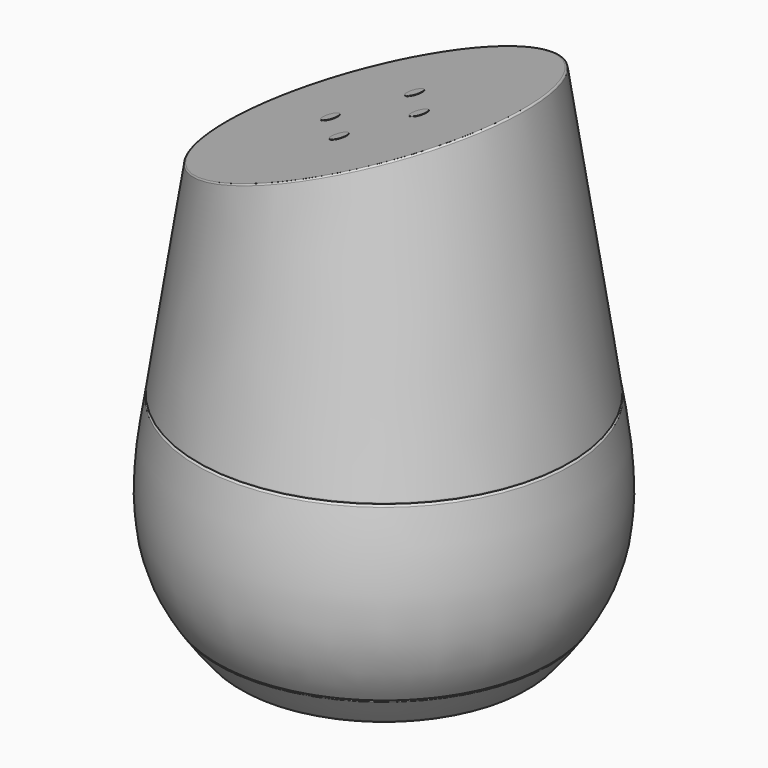
from build123d import *

# Parameters (mm, degrees)
F2_W          = 123.874515295
F2_H          = 0.2
F2_W_2        = 106.7904755473
F3_DEPTH      = 60.8024099526
F3_DEPTH_BACK = 60.8024099526
F4_R          = 2.5
F5_DEPTH      = 0.1
F6_R          = 0.6
F7_R          = 0.2
F8_R          = 0.8
F9_R          = 0.4
F10_R         = 3
F11_R         = 0.5


with BuildPart() as f1:
    # F0 (on Front) → F1 (revolve)
    with BuildSketch(Plane.XZ):
        with BuildLine():
            Line((0, 0), (0, 160))
            Line((0, 160), (-44, 160))
            Line((-44, 160), (-58, 67))
            add(Edge.make_bspline(
                [(-44, 0), (-60.16298756, 18.7955461442), (-64.2807781696, 31.4914767146), (-58, 67)],
                knots=[0, 0, 0, 0, 68.4470598346, 68.4470598346, 68.4470598346, 68.4470598346], degree=3))
            Line((-44, 0), (0, 0))
        make_face()
    revolve(axis=Axis((0, 0, 80), (0, 0, -1)))

    # F2 (on Front) → F3 (cut, two sides)
    with BuildSketch(Plane.XZ) as f3_sk:
        Polygon((-49.8046438268, 125.6367528439), (46.3961996138, 160.6367528439), (-49.8046438268, 160.6367528439), align=None)
        with Locations((1.1657327414, 67)):
            Rectangle(F2_W, F2_H)
        with Locations((0.9852983057, 10.1)):
            Rectangle(F2_W_2, F2_H)
    extrude(amount=-F3_DEPTH, mode=Mode.SUBTRACT)
    extrude(f3_sk.sketch, amount=F3_DEPTH_BACK, mode=Mode.SUBTRACT)

    # F6
    f6_edges = [f1.edges().sort_by_distance(p)[0] for p in [
        (58.017671, 0, 66.9),
    ]]
    fillet(f6_edges, radius=F6_R)

    # F7
    f7_edges = [f1.edges().sort_by_distance(p)[0] for p in [
        (51.751986, 0, 10),
    ]]
    fillet(f7_edges, radius=F7_R)

    # F8
    f8_edges = [f1.edges().sort_by_distance(p)[0] for p in [
        (51.885653, 0, 10.2),
    ]]
    fillet(f8_edges, radius=F8_R)

    # F9
    f9_edges = [f1.edges().sort_by_distance(p)[0] for p in [
        (57.984946, 0, 67.1),
    ]]
    fillet(f9_edges, radius=F9_R)

    # F10
    f10_edges = [f1.edges().sort_by_distance(p)[0] for p in [
        (44, 0, 0),
    ]]
    fillet(f10_edges, radius=F10_R)

    # F11
    f11_edges = [f1.edges().sort_by_distance(p)[0] for p in [
        (44.033545, -0.000169, 159.777167),
    ]]
    fillet(f11_edges, radius=F11_R)


with BuildPart() as f5:
    # F4 (on face) → F5 (new body)
    with BuildSketch(Plane(origin=(-46.1881406843, 0, 126.9525168794), x_dir=(0.9397373308, 0, 0.3418972787), z_dir=(-0.3418972787, 0, 0.9397373308))):
        with Locations((60.7194464222, 0)):
            Circle(F4_R)
    extrude(amount=F5_DEPTH)


with BuildPart() as f5b:
    # F4 (on face) → F5, piece 2 (new body)
    with BuildSketch(Plane(origin=(-46.1881406843, 0, 126.9525168794), x_dir=(0.9397373308, 0, 0.3418972787), z_dir=(-0.3418972787, 0, 0.9397373308))):
        with Locations((46.4350316451, 15.0524510743)):
            Circle(F4_R)
    extrude(amount=F5_DEPTH)


with BuildPart() as f5c:
    # F4 (on face) → F5, piece 3 (new body)
    with BuildSketch(Plane(origin=(-46.1881406843, 0, 126.9525168794), x_dir=(0.9397373308, 0, 0.3418972787), z_dir=(-0.3418972787, 0, 0.9397373308))):
        with Locations((31.3825805709, 0)):
            Circle(F4_R)
    extrude(amount=F5_DEPTH)


with BuildPart() as f5d:
    # F4 (on face) → F5, piece 4 (new body)
    with BuildSketch(Plane(origin=(-46.1881406843, 0, 126.9525168794), x_dir=(0.9397373308, 0, 0.3418972787), z_dir=(-0.3418972787, 0, 0.9397373308))):
        with Locations((46.4350316451, -14.2844147771)):
            Circle(F4_R)
    extrude(amount=F5_DEPTH)


solid = Compound([f1.part, f5.part, f5b.part, f5c.part, f5d.part])
